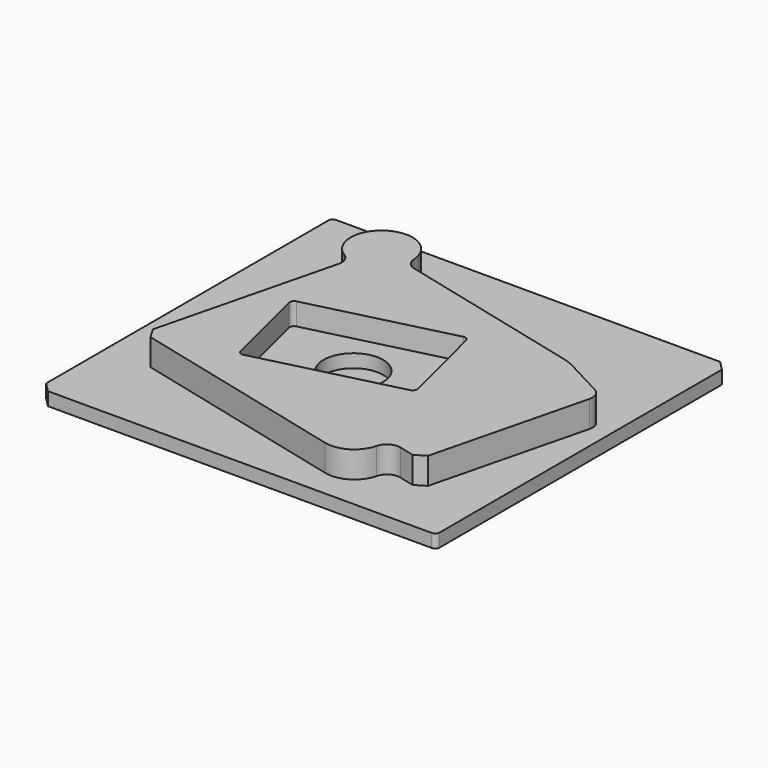
from build123d import *

# Parameters (mm, degrees)
PAD_DEPTH       = 6
PAD001_DEPTH    = 12
POCKET_DEPTH    = 10
SKETCH003_R     = 13.5
POCKET001_DEPTH = 6


with BuildPart() as part:
    # Sketch → Pad (new body)
    with BuildSketch(Plane.XY):
        with BuildLine():
            ThreePointArc((2, 166), (0.585786, 165.414214), (0, 164))
            Line((0, 4.242641), (0, 164))
            Line((0, 4.242641), (4.242641, 0))
            Line((178, 0), (4.242641, 0))
            ThreePointArc((178, 0), (179.414214, 0.585786), (180, 2))
            Line((180, 161.757359), (180, 2))
            Line((175.757359, 166), (180, 161.757359))
            Line((175.757359, 166), (2, 166))
        make_face()
    extrude(amount=PAD_DEPTH)

    # Sketch001 (on Face10 of Pad) → Pad001 (join)
    with BuildSketch(Plane.XY.offset(6)):
        with BuildLine():
            ThreePointArc((56.618237, 141.695686), (35.433188, 152.851689), (35.337576, 128.908975))
            ThreePointArc((38.028145, 122.339284), (37.758773, 126.064762), (35.337576, 128.908975))
            Line((38.028145, 122.339284), (18.026388, 42.116616))
            Line((18.026388, 42.116616), (21.116616, 36.973612))
            Line((21.116616, 36.973612), (119.851347, 12.356279))
            ThreePointArc((119.851347, 12.356279), (129.691827, 13.826948), (135.610177, 21.825139))
            ThreePointArc((142.883482, 26.195382), (138.341722, 25.516611), (135.610177, 21.825139))
            Line((142.883482, 26.195382), (149.78317, 24.475096))
            Line((149.78317, 24.475096), (154.49759, 27.307806))
            Line((171.860307, 96.945859), (154.49759, 27.307806))
            ThreePointArc((171.860307, 96.945859), (171.519805, 100.83781), (168.855362, 103.695076))
            Line((151.638909, 112.849226), (168.855362, 103.695076))
            ThreePointArc((151.638909, 112.849226), (148.639111, 114.216313), (145.495068, 115.207626))
            Line((61.155784, 136.235771), (145.495068, 115.207626))
            ThreePointArc((56.618237, 141.695686), (57.992845, 138.222619), (61.155784, 136.235771))
        make_face()
    extrude(amount=PAD001_DEPTH)

    # Sketch002 (on Face26 of Pad001) → Pocket (cut)
    with BuildSketch(Plane.XY.offset(18)):
        with BuildLine():
            ThreePointArc((44.26968, 90.573005), (43.039189, 89.66249), (42.812933, 88.14857))
            Line((42.812933, 88.14857), (52.73173, 48.366445))
            ThreePointArc((52.73173, 48.366445), (53.642246, 47.135954), (55.156166, 46.909698))
            Line((55.156166, 46.909698), (118.225388, 62.634621))
            ThreePointArc((118.225388, 62.634621), (119.455879, 63.545136), (119.682135, 65.059056))
            Line((109.763338, 104.841181), (119.682135, 65.059056))
            ThreePointArc((109.763338, 104.841181), (108.852822, 106.071672), (107.338902, 106.297928))
            Line((107.338902, 106.297928), (44.26968, 90.573005))
        make_face()
    extrude(amount=-POCKET_DEPTH, mode=Mode.SUBTRACT)

    # Sketch003 (on Face35 of Pocket) → Pocket001 (cut)
    with BuildSketch(Plane.XY.offset(8)):
        with Locations((81.247534, 76.603813)):
            Circle(SKETCH003_R)
    extrude(amount=-POCKET001_DEPTH, mode=Mode.SUBTRACT)


solid = part.part
